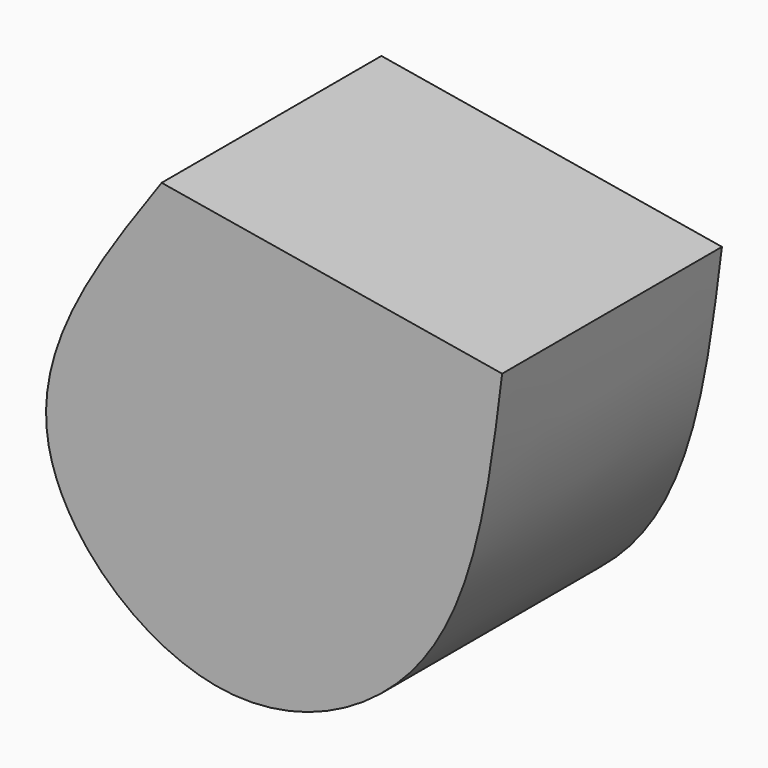
from build123d import *

# Parameters (mm, degrees)
F1_DEPTH = 47.7068796754


with BuildPart() as f1:
    # F0 (on Front) → F1 (new body)
    with BuildSketch(Plane.XZ):
        with BuildLine():
            Line((31.9483727217, 13.8996392488), (-27.1769165993, 23.8575860858))
            add(Edge.make_bspline(
                [(-27.1769165993, 23.8575860858), (-38.2962703009, 8.1326606774), (-59.3954840546, -21.7057357162), (-18.3181933176, -59.503568751), (25.5384308076, -37.6041773032), (29.7224976254, -3.9851710595), (31.9483727217, 13.8996392488)],
                knots=[0, 0, 0, 0, 0.2644773658, 0.5018517236, 0.7349924025, 1, 1, 1, 1], degree=3))
        make_face()
    extrude(amount=F1_DEPTH)


solid = f1.part
